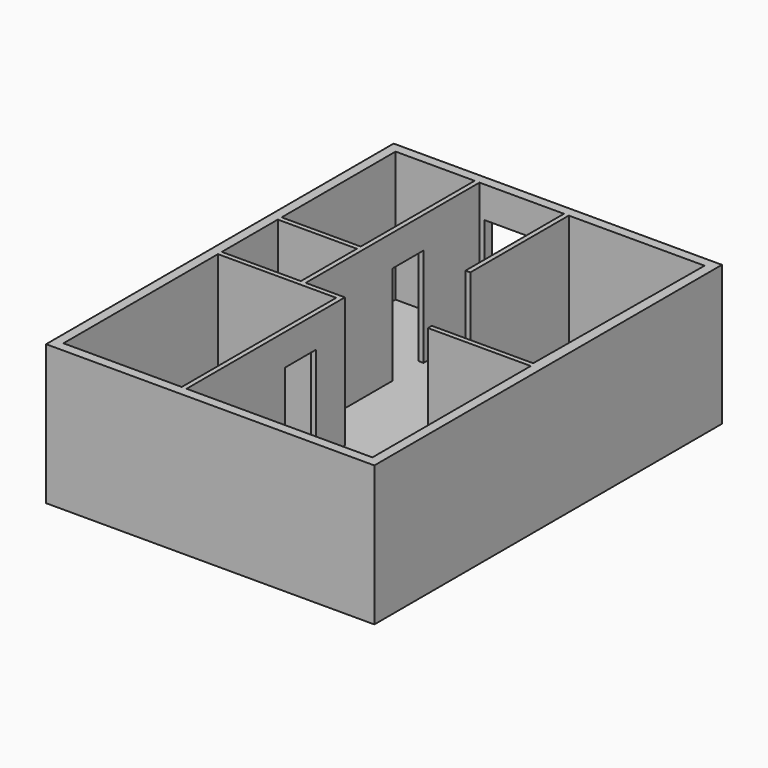
from build123d import *

# Parameters (mm, degrees)
F0_W      = 6800
F0_H      = 9000
F1_DEPTH  = 2900
F2_W      = 3850
F2_H      = 4100
F3_DEPTH  = 2700
F4_W      = 2450
F4_H      = 4000
F5_DEPTH  = 2700
F6_W      = 1750
F6_H      = 4500
F7_DEPTH  = 2700
F9_DEPTH  = 2700
F10_W     = 1638
F10_H     = 2950
F10_H_2   = 1450
F11_DEPTH = 2700
F12_W     = 800
F12_H     = 2050
F13_DEPTH = 100
F14_W     = 800
F14_H     = 2050
F15_DEPTH = 100
F16_W     = 950
F16_H     = 2050
F17_DEPTH = 200
F18_W     = 700
F18_H     = 2050
F19_DEPTH = 100


with BuildPart() as f1:
    # F0 (on Top) → F1 (new body)
    with BuildSketch(Plane.XY):
        Rectangle(F0_W, F0_H)
    extrude(amount=F1_DEPTH)

    # F2 (on face) → F3 (cut)
    with BuildSketch(Plane.XY.offset(2900)):
        with Locations((1275, -2250)):
            Rectangle(F2_W, F2_H)
    extrude(amount=-F3_DEPTH, mode=Mode.SUBTRACT)

    # F4 (on face) → F5 (cut)
    with BuildSketch(Plane.XY.offset(2900)):
        with Locations((-1975, -2300)):
            Rectangle(F4_W, F4_H)
    extrude(amount=-F5_DEPTH, mode=Mode.SUBTRACT)

    # F6 (on face) → F7 (cut)
    with BuildSketch(Plane.XY.offset(2900)):
        with Locations((-587, 2050)):
            Rectangle(F6_W, F6_H)
    extrude(amount=-F7_DEPTH, mode=Mode.SUBTRACT)

    # F8 (on face) → F9 (cut)
    with BuildSketch(Plane.XY.offset(2900)):
        Polygon((3170.171952, -100), (3200, 4300), (388, 4300), (388, 1750), (288, 1750), (288, -200), (1070.171952, -200), (1070.171952, -100), align=None)
    extrude(amount=-F9_DEPTH, mode=Mode.SUBTRACT)

    # F10 (on face) → F11 (cut)
    with BuildSketch(Plane.XY.offset(2900)):
        with Locations((-2381, 2825)):
            Rectangle(F10_W, F10_H)
        with Locations((-2381, 525)):
            Rectangle(F10_W, F10_H_2)
    extrude(amount=-F11_DEPTH, mode=Mode.SUBTRACT)

    # F12 (on face) → F13 (cut)
    with BuildSketch(Plane.YZ.offset(-650)):
        with Locations((-1350, 1225)):
            Rectangle(F12_W, F12_H)
    extrude(amount=-F13_DEPTH, mode=Mode.SUBTRACT)

    # F14 (on face) → F15 (cut)
    with BuildSketch(Plane.YZ.offset(-1462)):
        with Locations((2450, 1225)):
            Rectangle(F14_W, F14_H)
    extrude(amount=-F15_DEPTH, mode=Mode.SUBTRACT)

    # F16 (on face) → F17 (cut)
    with BuildSketch(Plane.XZ.offset(-4300)):
        with Locations((-887, 1225)):
            Rectangle(F16_W, F16_H)
    extrude(amount=-F17_DEPTH, mode=Mode.SUBTRACT)

    # F18 (on face) → F19 (cut)
    with BuildSketch(Plane(origin=(0, 1350, 0), x_dir=(-1, 0, 0), z_dir=(0, 1, 0))):
        with Locations((1962, 1225)):
            Rectangle(F18_W, F18_H)
    extrude(amount=-F19_DEPTH, mode=Mode.SUBTRACT)


solid = f1.part
